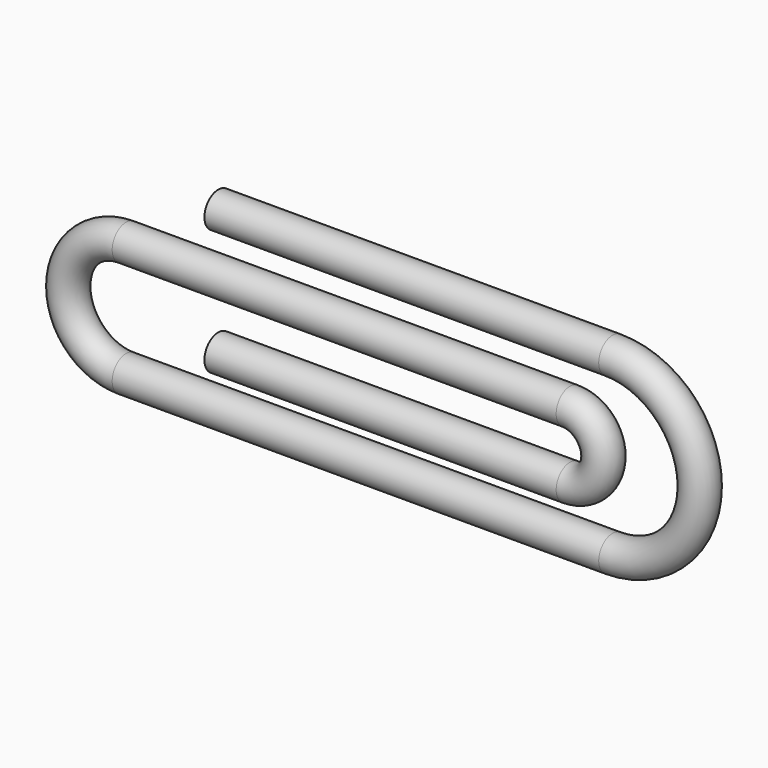
from build123d import *

# Parameters (mm, degrees)
F2_R = 2.649634


with BuildPart() as f3:
    # F3: sweep along a path in F1
    with BuildLine(Plane.XZ.offset(25.4)) as f3_path:
        Line((0, 0), (60.317617, 0))
        ThreePointArc((60.317617, 0), (73.652618, -13.335001), (60.317617, -26.670001))
        Line((60.317617, -26.670001), (-14.110291, -26.670001))
        ThreePointArc((-14.110291, -26.670001), (-22.948606, -17.831687), (-14.110291, -8.993372))
        Line((-14.110291, -8.993372), (53.805172, -8.993372))
        ThreePointArc((53.805172, -8.993372), (58.922091, -14.11029), (53.805172, -19.227209))
        Line((53.805172, -19.227209), (0, -19.227209))
    # F2 (on Right) → F3 (sweep)
    with BuildSketch(Plane.YZ):
        with Locations((-25.093233, 0)):
            Circle(F2_R)
    sweep(path=f3_path.line)


solid = f3.part
